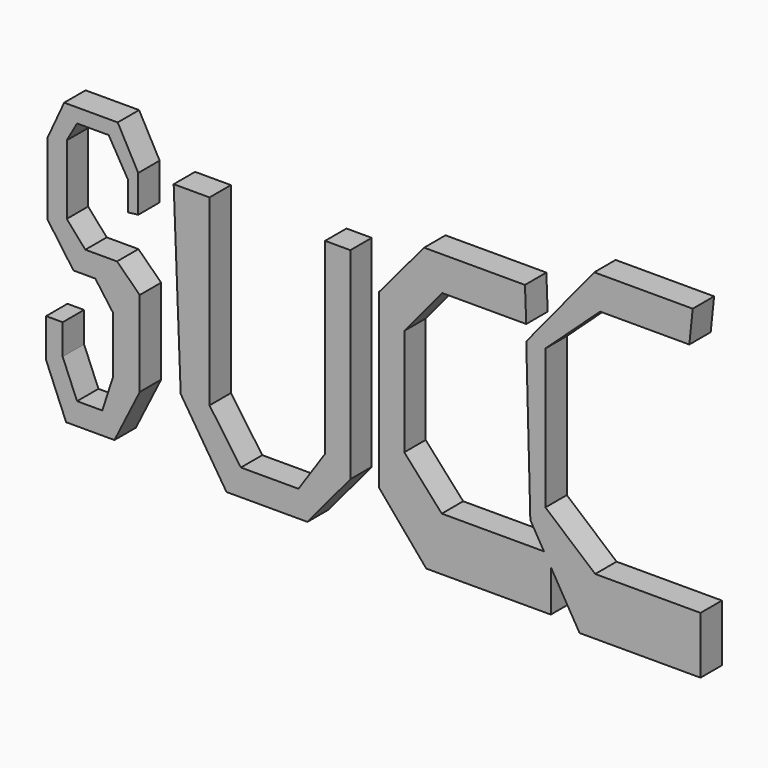
from build123d import *

# Parameters (mm, degrees)
F1_DEPTH = 29.8341475427


with BuildPart() as f1:
    # F0 (on Front) → F1 (new body)
    with BuildSketch(Plane.XZ):
        Polygon((-148.5025882721, 76.8419206142), (-137.0643973351, 78.1708806753), (-137.0643973351, 119.2769035697), (-159.9407792091, 161.4552587271), (-219.6338474751, 161.4552587271), (-238.2209151983, 121.0640817881), (-238.2209151983, 40.6392663717), (-209.267988801, 0), (-184.9617958069, 0), (-165.3023958206, -26.9176065922), (-165.3023958206, -90.5425548553), (-177.0980358124, -127.0018219948), (-205.2890211344, -127.0018219948), (-221.3134765625, -88.5346829891), (-221.3134765625, -54.7052621841), (-239.8306280375, -54.7052621841), (-239.8306280375, -97.793251276), (-217.4670100212, -151.6239643097), (-177.8424680233, -151.6239643097), (-163.5633409023, -151.6239643097), (-135.3620588779, -95.2214896679), (-135.3620588779, 0), (-160.7075035572, 24.7231274843), (-196.0483193398, 24.7231274843), (-216.7530655861, 48.2836812735), (-216.7530655861, 125.3909319639), (-205.3297609091, 145.7386910915), (-169.9889302254, 145.7386910915), (-148.5025882721, 108.9699417353), align=None)
    extrude(amount=F1_DEPTH)


with BuildPart() as f1b:
    # F0 (on Front) → F1, piece 2 (new body)
    with BuildSketch(Plane.XZ):
        Polygon((-57.5408637524, 121.1072057486), (-97.5224077702, 121.1072057486), (-89.6688699722, -82.3702514172), (-38.6210083961, -161.9763970375), (51.6944229603, -161.9763970375), (99.529504776, -104.5029163361), (99.529504776, 120.3932464123), (71.3282227516, 120.3932464123), (71.3282227516, -88.7958705425), (41.699051857, -132.7041685581), (-22.5570201874, -132.7041685581), (-57.5408637524, -83.0842256546), align=None)
    extrude(amount=F1_DEPTH)


with BuildPart() as f1c:
    # F0 (on Front) → F1, piece 3 (new body)
    with BuildSketch(Plane.XZ):
        Polygon((295.7310676575, 111.6632521152), (294.2889928818, 149.6363133192), (181.8118095398, 149.6363133192), (131.341278553, 89.5523428917), (131.341278553, -102.2356450558), (184.2151880264, -164.7229790688), (323.1292963028, -164.7229790688), (323.1292963028, -118.0562528618), (315.4883873759, -105.1196753979), (201.519370079, -105.1196753979), (159.7009897232, -58.4945380688), (159.7009897232, 60.7120394707), (202.0000815392, 111.6632521152), align=None)
        Polygon((315.4883873759, -105.1196753979), (323.1292963028, -118.0562528618), (323.1292963028, -105.1196753979), align=None)
        Polygon((323.1292963028, -105.1196753979), (323.1292963028, -118.0562528618), (355.2204370499, -172.3887324333), (490.1076555252, -172.3887324333), (490.1076555252, -108.7524592876), (372.6252317429, -108.7524592876), (317.1474933624, -61.4332258701), (317.1474933624, 94.6659147739), (378.0642747879, 150.6875753403), (477.5978922844, 150.6875753403), (481.4051389694, 187.1288567781), (371.5373873711, 187.1288567781), (295.7310676575, 94.6659147739), (300.286591053, -79.3820023537), (315.4883873759, -105.1196753979), align=None)
    extrude(amount=F1_DEPTH)


solid = Compound([f1.part, f1b.part, f1c.part])
